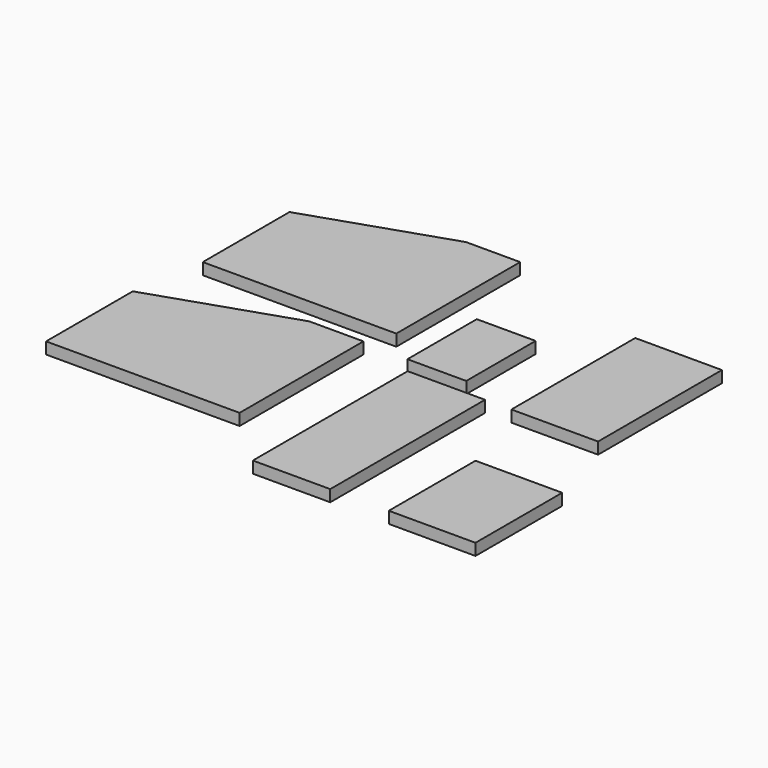
from build123d import *

# Parameters (mm, degrees)
F0_W     = 112
F0_H     = 200
F0_H_2   = 140
F0_W_2   = 76
F0_H_3   = 112
F1_DEPTH = 15


with BuildPart() as f1:
    # F0 (on Top) → F1 (new body)
    with BuildSketch(Plane.XY):
        Polygon((-43.929126, 3.552402), (-43.929126, 37.007362), (-143.929126, 37.007362), (-143.929126, -212.992638), (-43.929126, -212.992638), align=None)
        with Locations((46.091541, 137.007362)):
            Rectangle(F0_W, F0_H)
        with Locations((87.735014, -142.992638)):
            Rectangle(F0_W, F0_H_2)
        with Locations((-122.435277, 113.30148)):
            Rectangle(F0_W_2, F0_H_3)
        Polygon((-219.435304, 60), (-289.435304, 60), (-469.435304, 0), (-469.435304, -140), (-219.435304, -140), align=None)
        Polygon((-204.203144, 294.031364), (-274.203144, 294.031364), (-454.203144, 234.031364), (-454.203144, 94.031364), (-204.203144, 94.031364), align=None)
    extrude(amount=F1_DEPTH)


solid = f1.part
